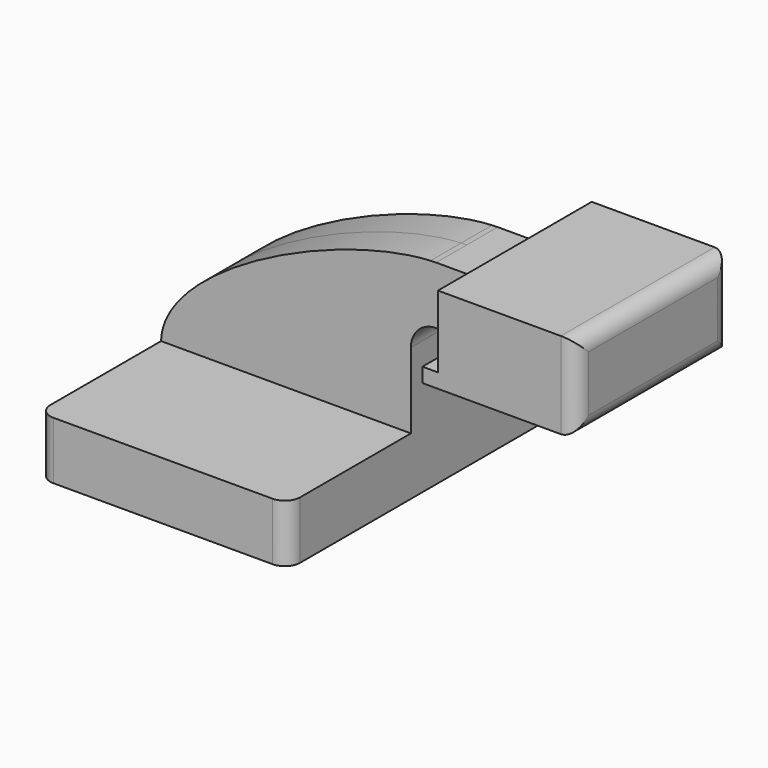
from build123d import *

# Parameters (mm, degrees)
F1_DEPTH = 63.5
F2_DEPTH = 12.7
F3_DEPTH = 31.75
F4_R     = 5.08
F4_2_R   = 5.08


with BuildPart() as f1:
    # F0 (on Front) → F1 (new body, symmetric)
    with BuildSketch(Plane.XZ):
        Polygon((41.275, -9.525), (41.275, 9.525), (22.225, 9.525), (-41.275, 9.525), (-41.275, -9.525), align=None)
    extrude(amount=F1_DEPTH, both=True)

    # F0 (on Front) → F2 (join, symmetric)
    with BuildSketch(Plane.XZ):
        with BuildLine():
            Line((22.225, 9.525), (41.275, 9.525))
            Line((41.275, 9.525), (41.275, 34.509616))
            ThreePointArc((41.275, 34.509616), (43.725223, 40.424977), (49.640584, 42.8752))
            Line((49.640584, 42.8752), (60.325, 42.8752))
            Line((60.325, 42.8752), (60.325, 61.9252))
            Line((60.325, 61.9252), (49.640584, 61.9252))
            add(Edge.make_bspline(
                [(47.763247, 61.860847), (48.400175, 61.892987), (49.02619, 61.91452), (49.640584, 61.9252)],
                knots=[102.833167, 102.833167, 102.833167, 102.833167, 104.935334, 104.935334, 104.935334, 104.935334], degree=3))
            ThreePointArc((47.763247, 61.860847), (29.602089, 53.219853), (22.225, 34.509616))
            Line((22.225, 34.509616), (22.225, 9.525))
        make_face()
        with BuildLine():
            Line((-41.275, 9.525), (22.225, 9.525))
            Line((22.225, 9.525), (22.225, 34.509616))
            ThreePointArc((22.225, 34.509616), (29.602089, 53.219853), (47.763247, 61.860847))
            add(Edge.make_bspline(
                [(-41.275, 9.525), (-40.665553, 33.331984), (16.606208, 60.288623), (47.763247, 61.860847)],
                knots=[0, 0, 0, 0, 102.833167, 102.833167, 102.833167, 102.833167], degree=3))
        make_face()
    extrude(amount=F2_DEPTH, both=True)

    # F4
    f4_edges = [f1.edges().sort_by_distance(p)[0] for p in [
        (41.275, -63.5, 0),
        (41.275, 63.5, 0),
        (0, 63.5, 9.525),
        (-41.275, 63.5, 0),
        (0, 63.5, -9.525),
        (-41.275, -63.5, 0),
    ]]
    fillet(f4_edges, radius=F4_R)


with BuildPart() as f3:
    # F0 (on Front) → F3 (new body, symmetric)
    with BuildSketch(Plane.XZ):
        Polygon((65.455396, 42.8752), (60.325, 42.8752), (60.325, 38.1), (111.125, 38.1), (111.125, 66.675), (65.455396, 66.675), (65.455396, 61.9252), (65.455396, 52.4002), align=None)
    extrude(amount=F3_DEPTH, both=True)

    # F4#2
    f4_2_edges = [f3.edges().sort_by_distance(p)[0] for p in [
        (111.125, 0, 38.1),
        (111.125, 31.75, 52.3875),
        (111.125, 0, 66.675),
        (111.125, -31.75, 52.3875),
    ]]
    fillet(f4_2_edges, radius=F4_2_R)


solid = Compound([f1.part, f3.part])
